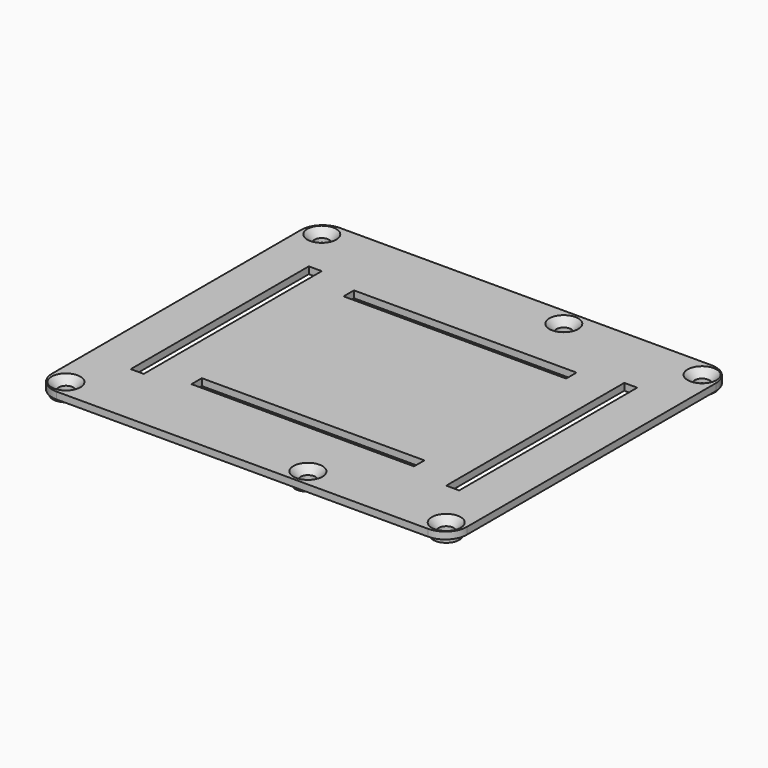
from build123d import *

# Parameters (mm, degrees)
SKETCH021_W             = 51.5
SKETCH021_H             = 3
SKETCH021_W_2           = 3
SKETCH021_H_2           = 51.5
PAD014_DEPTH            = 1.6
SKETCH022_R             = 3
PAD015_DEPTH            = 2.6
HOLE_D                  = 3.4
HOLE_DEPTH              = 25
HOLE_CSINK_D            = 6.7
HOLE_CSINK_ANGLE        = 90
BODY005_PLACEMENT_ANGLE = 180


with BuildPart() as part:
    # Sketch021 → Pad014 (new body)
    with BuildSketch(Plane.XY):
        with BuildLine():
            ThreePointArc((-43, 41), (-46.535534, 39.535534), (-48, 36))
            Line((-48, -36), (-48, 36))
            ThreePointArc((-48, -36), (-46.535534, -39.535534), (-43, -41))
            Line((43, -41), (-43, -41))
            ThreePointArc((43, -41), (46.535534, -39.535534), (48, -36))
            Line((48, 36), (48, -36))
            ThreePointArc((48, 36), (46.535534, 39.535534), (43, 41))
            Line((-43, 41), (43, 41))
        make_face()
        with Locations((0, 22)):
            Rectangle(SKETCH021_W, SKETCH021_H, mode=Mode.SUBTRACT)
        with Locations((0, -22)):
            Rectangle(SKETCH021_W, SKETCH021_H, mode=Mode.SUBTRACT)
        with Locations((-36.5, 0)):
            Rectangle(SKETCH021_W_2, SKETCH021_H_2, mode=Mode.SUBTRACT)
        with Locations((36.5, 0)):
            Rectangle(SKETCH021_W_2, SKETCH021_H_2, mode=Mode.SUBTRACT)
    extrude(amount=PAD014_DEPTH)

    # Sketch022 → Pad015 (join)
    with BuildSketch(Plane.XY):
        with Locations((-44, 37)):
            Circle(SKETCH022_R)
        with Locations((12, 37)):
            Circle(SKETCH022_R)
        with Locations((44, 37)):
            Circle(SKETCH022_R)
        with Locations((44, -37)):
            Circle(SKETCH022_R)
        with Locations((12, -37)):
            Circle(SKETCH022_R)
        with Locations((-44, -37)):
            Circle(SKETCH022_R)
    extrude(amount=PAD015_DEPTH)

    # Hole
    with Locations(Plane(origin=(0, 0, 0), x_dir=(1, 0, 0), z_dir=(0, 0, -1))):
        with Locations((-44, -37), (12, -37), (44, -37), (44, 37), (12, 37), (-44, 37)):
            CounterSinkHole(HOLE_D / 2, HOLE_CSINK_D / 2, depth=HOLE_DEPTH, counter_sink_angle=HOLE_CSINK_ANGLE)


with BuildPart() as part_1:
    # Body005 placement: moved
    add(part.part.moved(Location((0, 0, 80.3))).rotate(Axis((0, 0, 80.3), (1, 0, 0)), BODY005_PLACEMENT_ANGLE))


solid = part_1.part
